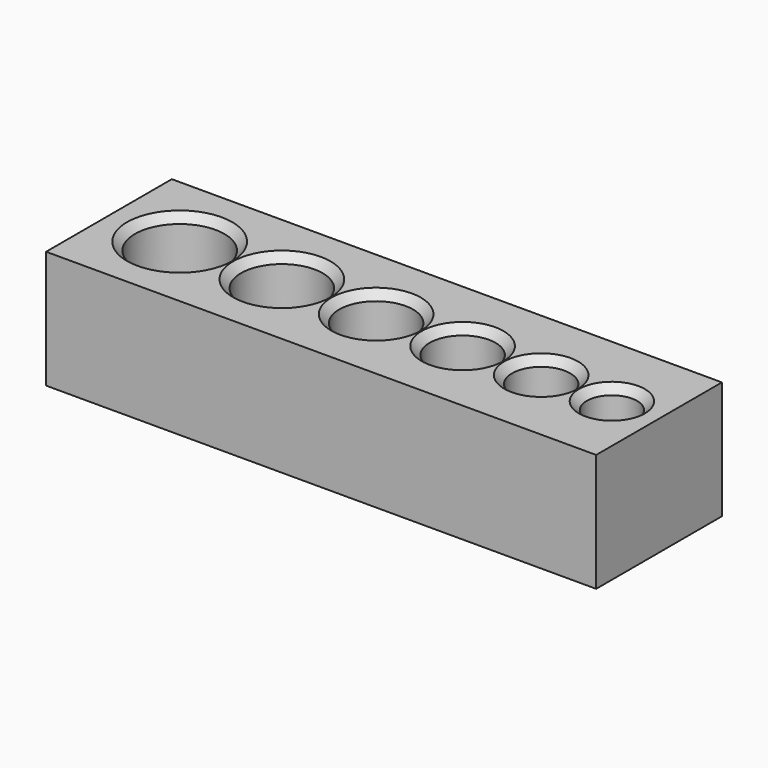
from build123d import *

# Parameters (mm, degrees)
F0_W     = 35
F0_H     = 10
F0_R     = 2.85
F0_R_2   = 2.6
F0_R_3   = 2.35
F0_R_4   = 2.1
F0_R_5   = 1.85
F0_R_6   = 1.6
F1_DEPTH = 7.5
F2_SIZE  = 0.5


with BuildPart() as f1:
    # F0 (on Top) → F1 (new body)
    with BuildSketch(Plane.XY):
        with Locations((-5, 0)):
            Rectangle(F0_W, F0_H)
        with Locations((-18, 0)):
            Circle(F0_R, mode=Mode.SUBTRACT)
        with Locations((-11.5, 0)):
            Circle(F0_R_2, mode=Mode.SUBTRACT)
        with Locations((-5.5, 0)):
            Circle(F0_R_3, mode=Mode.SUBTRACT)
        Circle(F0_R_4, mode=Mode.SUBTRACT)
        with Locations((5, 0)):
            Circle(F0_R_5, mode=Mode.SUBTRACT)
        with Locations((9.5, 0)):
            Circle(F0_R_6, mode=Mode.SUBTRACT)
    extrude(amount=F1_DEPTH)

    # F2
    f2_edges = [f1.edges().sort_by_distance(p)[0] for p in [
        (-7.85, 0, 7.5),
        (-2.1, 0, 7.5),
        (3.15, 0, 7.5),
        (-14.1, 0, 7.5),
        (-20.85, 0, 7.5),
        (7.9, 0, 7.5),
    ]]
    chamfer(f2_edges, length=F2_SIZE)


solid = f1.part
